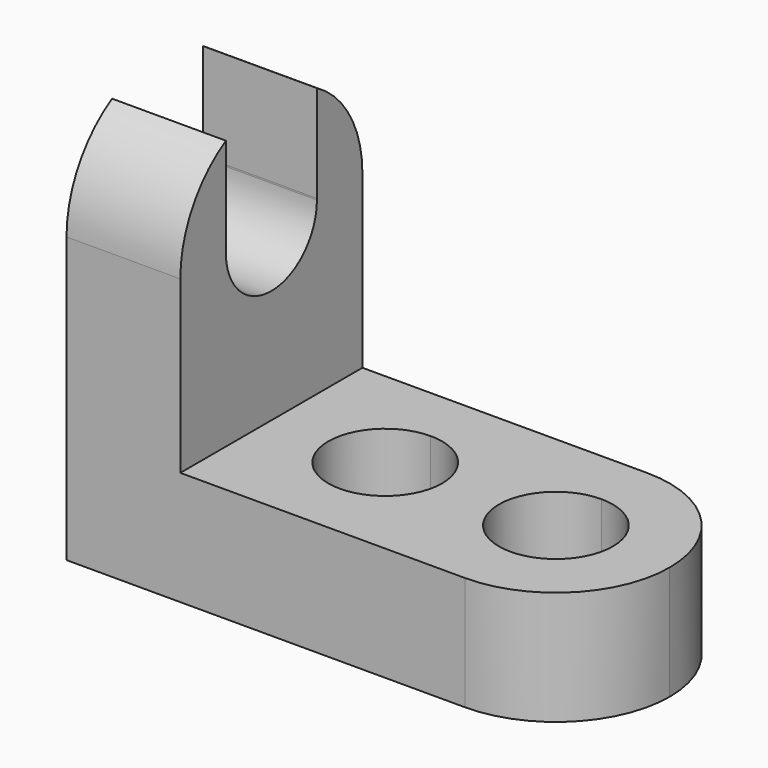
from build123d import *

# Parameters (mm, degrees)
F1_DEPTH = 25.4
F3_DEPTH = 25.4
F5_DEPTH = 25.4


with BuildPart() as f1:
    # F0 (on Front) → F1 (new body)
    with BuildSketch(Plane.XZ):
        Polygon((0, 44.45), (0, 0), (57.15, 0), (57.15, 12.7), (12.699999068, 12.7), (12.699999068, 44.45), align=None)
    extrude(amount=F1_DEPTH)

    # F2 (on face) → F3 (cut)
    with BuildSketch(Plane.YZ.offset(12.699999068)):
        with BuildLine():
            ThreePointArc((-25.4, 31.75), (-23.6985226281, 38.1), (-19.05, 42.7485226281))
            Line((-19.05, 42.7485226281), (-19.05, 44.45))
            Line((-19.05, 44.45), (-25.4, 44.45))
            Line((-25.4, 44.45), (-25.4, 31.75))
        make_face()
        with BuildLine():
            Line((-19.05, 44.45), (-19.05, 42.7485226281))
            ThreePointArc((-19.05, 42.7485226281), (-15.9870018728, 44.0172579939), (-12.7, 44.45))
            Line((-12.7, 44.45), (-19.05, 44.45))
        make_face()
        with BuildLine():
            ThreePointArc((-12.7, 44.45), (-9.4129981272, 44.0172579939), (-6.35, 42.7485226281))
            Line((-6.35, 42.7485226281), (-6.35, 44.45))
            Line((-6.35, 44.45), (-12.7, 44.45))
        make_face()
        with BuildLine():
            Line((-6.35, 44.45), (-6.35, 42.7485226281))
            ThreePointArc((-6.35, 42.7485226281), (-1.7014773719, 38.1), (0, 31.75))
            Line((0, 31.75), (0, 44.45))
            Line((0, 44.45), (-6.35, 44.45))
        make_face()
        with BuildLine():
            ThreePointArc((-19.05, 31.5876702138), (-12.6188284791, 25.3984441163), (-6.3479254602, 31.75))
            ThreePointArc((-6.3479254602, 31.75), (-6.3484441163, 31.8311715209), (-6.35, 31.9123297862))
            ThreePointArc((-6.35, 31.9123297862), (-12.7, 38.1020745398), (-19.05, 31.9123297862))
            Line((-19.05, 31.9123297862), (-19.05, 31.5876702138))
        make_face()
        with BuildLine():
            ThreePointArc((-19.05, 31.9123297862), (-12.7, 38.1020745398), (-6.35, 31.9123297862))
            Line((-6.35, 31.9123297862), (-6.35, 42.7485226281))
            ThreePointArc((-6.35, 42.7485226281), (-9.4129981272, 44.0172579939), (-12.7, 44.45))
            ThreePointArc((-12.7, 44.45), (-15.9870018728, 44.0172579939), (-19.05, 42.7485226281))
            Line((-19.05, 42.7485226281), (-19.05, 31.9123297862))
        make_face()
    extrude(amount=-F3_DEPTH, mode=Mode.SUBTRACT)

    # F4 (on face) → F5 (cut)
    with BuildSketch(Plane.XY.offset(12.7)):
        with BuildLine():
            Line((25.399999068, -19.05), (25.399999068, -6.35))
            ThreePointArc((25.399999068, -6.35), (19.049999068, -12.7), (25.399999068, -19.05))
        make_face()
        with BuildLine():
            ThreePointArc((25.399999068, -19.05), (29.8901271285, -17.1901280605), (31.749999068, -12.7))
            ThreePointArc((31.749999068, -12.7), (29.8901271285, -8.2098719395), (25.399999068, -6.35))
            Line((25.399999068, -6.35), (25.399999068, -19.05))
        make_face()
        with BuildLine():
            Line((44.45, -19.05), (44.45, -6.35))
            ThreePointArc((44.45, -6.35), (38.1, -12.7), (44.45, -19.05))
        make_face()
        with BuildLine():
            ThreePointArc((44.45, -19.05), (48.9401280605, -17.1901280605), (50.8, -12.7))
            ThreePointArc((50.8, -12.7), (48.9401280605, -8.2098719395), (44.45, -6.35))
            Line((44.45, -6.35), (44.45, -19.05))
        make_face()
        with BuildLine():
            ThreePointArc((44.45, 0), (53.4302561211, -3.7197438789), (57.15, -12.7))
            Line((57.15, -12.7), (57.15, 0))
            Line((57.15, 0), (44.45, 0))
        make_face()
        with BuildLine():
            ThreePointArc((57.15, -12.7), (53.4302561211, -21.6802561211), (44.45, -25.4))
            Line((44.45, -25.4), (57.15, -25.4))
            Line((57.15, -25.4), (57.15, -12.7))
        make_face()
    extrude(amount=-F5_DEPTH, mode=Mode.SUBTRACT)


solid = f1.part
